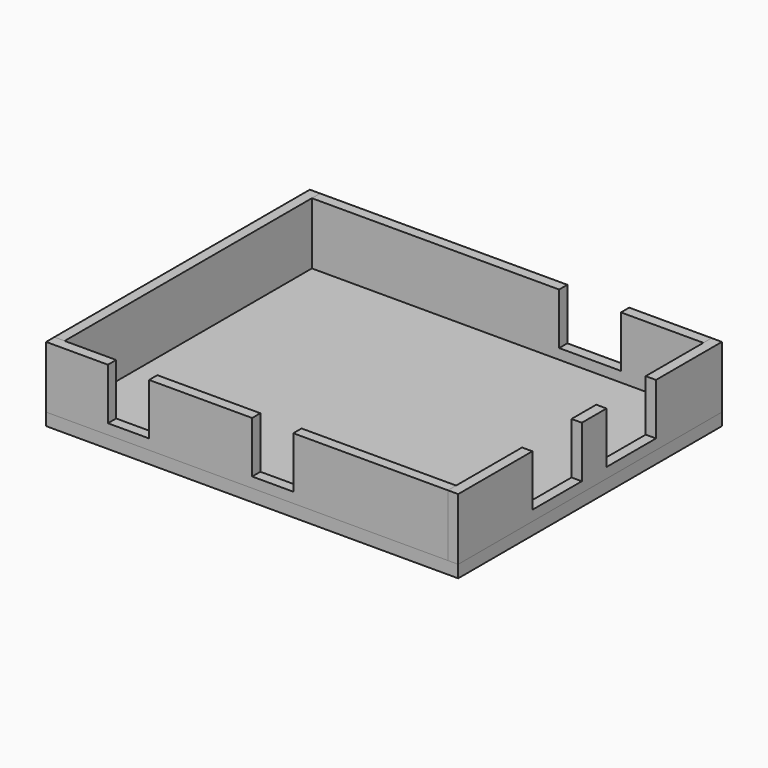
from build123d import *

# Parameters (mm, degrees)
F0_W      = 200
F0_H      = 160
F1_DEPTH  = 6
F2_W      = 200
F2_H      = 5
F3_DEPTH  = 30
F4_W      = 5
F4_H      = 160
F5_DEPTH  = 30
F6_W      = 200
F6_H      = 5
F7_DEPTH  = 30
F8_W      = 20
F8_H      = 25
F9_DEPTH  = 25
F10_W     = 20
F10_H     = 25
F11_DEPTH = 25
F12_W     = 5
F12_H     = 160
F13_DEPTH = 30
F14_W     = 30
F14_H     = 25
F15_DEPTH = 25
F16_W     = 30
F16_H     = 25
F17_DEPTH = 25
F18_W     = 30
F18_H     = 25
F19_DEPTH = 25


with BuildPart() as f1:
    # F0 (on Top) → F1 (new body)
    with BuildSketch(Plane.XY):
        with Locations((18.061473, -5.748522)):
            Rectangle(F0_W, F0_H)
    extrude(amount=F1_DEPTH)


with BuildPart() as f3:
    # F2 (on face) → F3 (new body)
    with BuildSketch(Plane.XY.offset(6)):
        with Locations((18.061473, 71.751478)):
            Rectangle(F2_W, F2_H)
    extrude(amount=F3_DEPTH)

    # F18 (on face) → F19 (cut)
    with BuildSketch(Plane(origin=(0, 74.251478, 0), x_dir=(-1, 0, 0), z_dir=(0, 1, 0))):
        with Locations((-58.061473, 23.5)):
            Rectangle(F18_W, F18_H)
    extrude(amount=-F19_DEPTH, mode=Mode.SUBTRACT)


with BuildPart() as f5:
    # F4 (on face) → F5 (new body)
    with BuildSketch(Plane.XY.offset(6)):
        with Locations((-79.438527, -5.748522)):
            Rectangle(F4_W, F4_H)
    extrude(amount=F5_DEPTH)


with BuildPart() as f7:
    # F6 (on face) → F7 (new body)
    with BuildSketch(Plane.XY.offset(6)):
        with Locations((18.061473, -83.248522)):
            Rectangle(F6_W, F6_H)
    extrude(amount=F7_DEPTH)

    # F8 (on face) → F9 (cut)
    with BuildSketch(Plane.XZ.offset(85.748522)):
        with Locations((-41.938527, 23.5)):
            Rectangle(F8_W, F8_H)
    extrude(amount=-F9_DEPTH, mode=Mode.SUBTRACT)

    # F10 (on face) → F11 (cut)
    with BuildSketch(Plane.XZ.offset(85.748522)):
        with Locations((28.061473, 23.5)):
            Rectangle(F10_W, F10_H)
    extrude(amount=-F11_DEPTH, mode=Mode.SUBTRACT)


with BuildPart() as f13:
    # F12 (on face) → F13 (new body)
    with BuildSketch(Plane.XY.offset(6)):
        with Locations((115.561473, -5.748522)):
            Rectangle(F12_W, F12_H)
    extrude(amount=F13_DEPTH)

    # F14 (on face) → F15 (cut)
    with BuildSketch(Plane.YZ.offset(118.061473)):
        with Locations((-25.748522, 23.5)):
            Rectangle(F14_W, F14_H)
    extrude(amount=-F15_DEPTH, mode=Mode.SUBTRACT)

    # F16 (on face) → F17 (cut)
    with BuildSketch(Plane.YZ.offset(118.061473)):
        with Locations((19.251478, 23.5)):
            Rectangle(F16_W, F16_H)
    extrude(amount=-F17_DEPTH, mode=Mode.SUBTRACT)


solid = Compound([f1.part, f3.part, f5.part, f7.part, f13.part])
